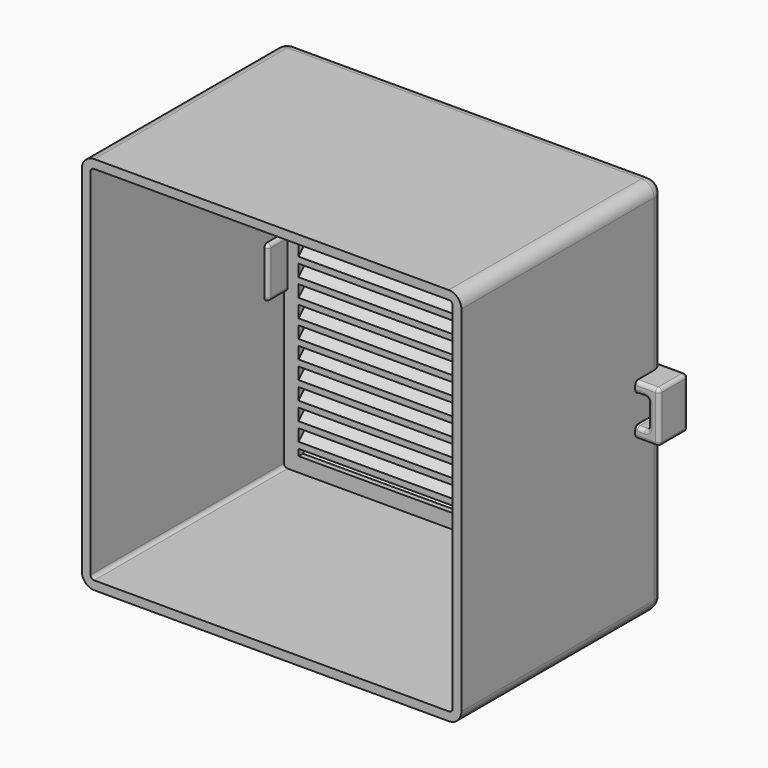
from build123d import *

# Parameters (mm, degrees)
BOX029_W             = 4
BOX029_H             = 8
BOX029_DEPTH         = 14
BOX028_W             = 10
BOX028_H             = 14
BOX028_DEPTH         = 10
FILLET001_R          = 1
BOX027_W             = 4
BOX027_H             = 8
BOX027_DEPTH         = 14
BOX026_W             = 10
BOX026_H             = 14
BOX026_DEPTH         = 10
FILLET002_R          = 1
BOX025_W             = 120
BOX025_H             = 120
BOX025_DEPTH         = 10
BOX001_W             = 100
BOX001_H             = 100
BOX001_DEPTH         = 70
BOX004_W             = 104
BOX004_H             = 1.2
BOX004_DEPTH         = 7
BOX004_ROLL_ANGLE    = 45
BOX016_W             = 104
BOX016_H             = 1.2
BOX016_DEPTH         = 7
BOX016_ROLL_ANGLE    = 45
BOX015_W             = 104
BOX015_H             = 1.2
BOX015_DEPTH         = 7
BOX015_ROLL_ANGLE    = 45
BOX008_W             = 104
BOX008_H             = 1.2
BOX008_DEPTH         = 7
BOX008_ROLL_ANGLE    = 45
BOX006_W             = 104
BOX006_H             = 1.2
BOX006_DEPTH         = 7
BOX006_ROLL_ANGLE    = 45
BOX009_W             = 104
BOX009_H             = 1.2
BOX009_DEPTH         = 7
BOX009_ROLL_ANGLE    = 45
BOX010_W             = 104
BOX010_H             = 1.2
BOX010_DEPTH         = 7
BOX010_ROLL_ANGLE    = 45
BOX012_W             = 104
BOX012_H             = 1.2
BOX012_DEPTH         = 7
BOX012_ROLL_ANGLE    = 45
BOX013_W             = 104
BOX013_H             = 1.2
BOX013_DEPTH         = 7
BOX013_ROLL_ANGLE    = 45
BOX007_W             = 104
BOX007_H             = 1.2
BOX007_DEPTH         = 7
BOX007_ROLL_ANGLE    = 45
BOX014_W             = 104
BOX014_H             = 1.2
BOX014_DEPTH         = 7
BOX014_ROLL_ANGLE    = 45
BOX011_W             = 104
BOX011_H             = 1.2
BOX011_DEPTH         = 7
BOX011_ROLL_ANGLE    = 45
BOX005_W             = 104
BOX005_H             = 1.2
BOX005_DEPTH         = 7
BOX005_ROLL_ANGLE    = 45
BOX019_W             = 104
BOX019_H             = 1.2
BOX019_DEPTH         = 7
BOX019_ROLL_ANGLE    = 45
BOX022_W             = 104
BOX022_H             = 1.2
BOX022_DEPTH         = 7
BOX022_ROLL_ANGLE    = 45
BOX023_W             = 104
BOX023_H             = 1.2
BOX023_DEPTH         = 7
BOX023_ROLL_ANGLE    = 45
BOX017_W             = 104
BOX017_H             = 1.2
BOX017_DEPTH         = 7
BOX017_ROLL_ANGLE    = 45
BOX021_W             = 104
BOX021_H             = 1.2
BOX021_DEPTH         = 7
BOX021_ROLL_ANGLE    = 45
BOX020_W             = 104
BOX020_H             = 1.2
BOX020_DEPTH         = 7
BOX020_ROLL_ANGLE    = 45
BOX018_W             = 104
BOX018_H             = 1.2
BOX018_DEPTH         = 7
BOX018_ROLL_ANGLE    = 45
BOX003_W             = 104
BOX003_H             = 1.2
BOX003_DEPTH         = 7
BOX003_ROLL_ANGLE    = 45
BOX024_W             = 4
BOX024_H             = 104
BOX024_DEPTH         = 10
BOX002_W             = 92
BOX002_H             = 92
BOX002_DEPTH         = 80
BOX_W                = 104.8
BOX_H                = 104.8
BOX_DEPTH            = 70
FILLET_1_R           = 3.5
FILLET_2_R           = 1
FUSION002_ROLL_ANGLE = 90


with BuildPart() as cube008:
    # Box029 → Box029 (new body)
    with BuildSketch(Plane(origin=(52, -4, -1), x_dir=(1, 0, 0), z_dir=(0, 0, 1))):
        with Locations((2, 4)):
            Rectangle(BOX029_W, BOX029_H)
    extrude(amount=BOX029_DEPTH)


with BuildPart() as fillet001:
    # Box028 → Box028 (new body)
    with BuildSketch(Plane(origin=(49, -7, 0), x_dir=(1, 0, 0), z_dir=(0, 0, 1))):
        with Locations((5, 7)):
            Rectangle(BOX028_W, BOX028_H)
    extrude(amount=BOX028_DEPTH)

    # Cut004: cut Cube008
    add(cube008.part, mode=Mode.SUBTRACT)


with BuildPart() as fillet001_1:
    # Cut004 placement: moved
    add(fillet001.part.moved(Location((-108, 0, 0))))

    # Fillet001
    fillet001_edges = [fillet001_1.edges().sort_by_distance(p)[0] for p in [
        (-59, -7, 5),
        (-59, 0, 10),
        (-59, 7, 5),
        (-59, 0, 0),
        (-54, -7, 0),
        (-49, -7, 5),
        (-54, -7, 10),
        (-54, 7, 10),
        (-49, 0, 10),
        (-54, -4, 10),
        (-52, 0, 10),
        (-54, 4, 10),
        (-56, 0, 10),
        (-54, 7, 0),
        (-49, 7, 5),
        (-49, 0, 0),
        (-54, -4, 0),
        (-52, 0, 0),
        (-54, 4, 0),
        (-56, 0, 0),
        (-52, -4, 5),
        (-56, -4, 5),
        (-52, 4, 5),
        (-56, 4, 5),
    ]]
    fillet(fillet001_edges, radius=FILLET001_R)


with BuildPart() as cube006:
    # Box027 → Box027 (new body)
    with BuildSketch(Plane(origin=(52, -4, -1), x_dir=(1, 0, 0), z_dir=(0, 0, 1))):
        with Locations((2, 4)):
            Rectangle(BOX027_W, BOX027_H)
    extrude(amount=BOX027_DEPTH)


with BuildPart() as fillet002:
    # Box026 → Box026 (new body)
    with BuildSketch(Plane(origin=(49, -7, 0), x_dir=(1, 0, 0), z_dir=(0, 0, 1))):
        with Locations((5, 7)):
            Rectangle(BOX026_W, BOX026_H)
    extrude(amount=BOX026_DEPTH)

    # Cut003: cut Cube006
    add(cube006.part, mode=Mode.SUBTRACT)

    # Fillet002
    fillet002_edges = [fillet002.edges().sort_by_distance(p)[0] for p in [
        (49, -7, 5),
        (49, 0, 10),
        (49, 7, 5),
        (49, 0, 0),
        (54, -7, 0),
        (59, -7, 5),
        (54, -7, 10),
        (54, 7, 10),
        (59, 0, 10),
        (54, -4, 10),
        (56, 0, 10),
        (54, 4, 10),
        (52, 0, 10),
        (54, 7, 0),
        (59, 7, 5),
        (59, 0, 0),
        (54, -4, 0),
        (56, 0, 0),
        (54, 4, 0),
        (52, 0, 0),
        (56, -4, 5),
        (52, -4, 5),
        (56, 4, 5),
        (52, 4, 5),
    ]]
    fillet(fillet002_edges, radius=FILLET002_R)


with BuildPart() as cube004:
    # Box025 → Box025 (new body)
    with BuildSketch(Plane(origin=(-60, -60, -10), x_dir=(1, 0, 0), z_dir=(0, 0, 1))):
        with Locations((60, 60)):
            Rectangle(BOX025_W, BOX025_H)
    extrude(amount=BOX025_DEPTH)


with BuildPart() as cube001:
    # Box001 → Box001 (new body)
    with BuildSketch(Plane(origin=(-50, -50, 3.2), x_dir=(1, 0, 0), z_dir=(0, 0, 1))):
        with Locations((50, 50)):
            Rectangle(BOX001_W, BOX001_H)
    extrude(amount=BOX001_DEPTH)


with BuildPart() as fin001:
    # Box004 → Box004 (new body)
    with BuildSketch(Plane.XY):
        with Locations((52, 0.6)):
            Rectangle(BOX004_W, BOX004_H)
    extrude(amount=BOX004_DEPTH)


with BuildPart() as fin001_1:
    # Box004 roll: moved
    add(fin001.part.rotate(Axis((0, 0, 0), (1, 0, 0)), BOX004_ROLL_ANGLE))


with BuildPart() as fin001_2:
    # Box004 placement: moved
    add(fin001_1.part.moved(Location((-52, 5, -1))))


with BuildPart() as obj1:
    # Box016 → Box016 (new body)
    with BuildSketch(Plane.XY):
        with Locations((52, 0.6)):
            Rectangle(BOX016_W, BOX016_H)
    extrude(amount=BOX016_DEPTH)


with BuildPart() as obj1_1:
    # Box016 roll: moved
    add(obj1.part.rotate(Axis((0, 0, 0), (1, 0, 0)), BOX016_ROLL_ANGLE))


with BuildPart() as obj1_2:
    # Box016 placement: moved
    add(obj1_1.part.moved(Location((-52, -35, -1))))


with BuildPart() as obj2:
    # Box015 → Box015 (new body)
    with BuildSketch(Plane.XY):
        with Locations((52, 0.6)):
            Rectangle(BOX015_W, BOX015_H)
    extrude(amount=BOX015_DEPTH)


with BuildPart() as obj2_1:
    # Box015 roll: moved
    add(obj2.part.rotate(Axis((0, 0, 0), (1, 0, 0)), BOX015_ROLL_ANGLE))


with BuildPart() as obj2_2:
    # Box015 placement: moved
    add(obj2_1.part.moved(Location((-52, -40, -1))))


with BuildPart() as fin005:
    # Box008 → Box008 (new body)
    with BuildSketch(Plane.XY):
        with Locations((52, 0.6)):
            Rectangle(BOX008_W, BOX008_H)
    extrude(amount=BOX008_DEPTH)


with BuildPart() as fin005_1:
    # Box008 roll: moved
    add(fin005.part.rotate(Axis((0, 0, 0), (1, 0, 0)), BOX008_ROLL_ANGLE))


with BuildPart() as fin005_2:
    # Box008 placement: moved
    add(fin005_1.part.moved(Location((-52, 20, -1))))


with BuildPart() as fin003:
    # Box006 → Box006 (new body)
    with BuildSketch(Plane.XY):
        with Locations((52, 0.6)):
            Rectangle(BOX006_W, BOX006_H)
    extrude(amount=BOX006_DEPTH)


with BuildPart() as fin003_1:
    # Box006 roll: moved
    add(fin003.part.rotate(Axis((0, 0, 0), (1, 0, 0)), BOX006_ROLL_ANGLE))


with BuildPart() as fin003_2:
    # Box006 placement: moved
    add(fin003_1.part.moved(Location((-52, 10, -1))))


with BuildPart() as fin006:
    # Box009 → Box009 (new body)
    with BuildSketch(Plane.XY):
        with Locations((52, 0.6)):
            Rectangle(BOX009_W, BOX009_H)
    extrude(amount=BOX009_DEPTH)


with BuildPart() as fin006_1:
    # Box009 roll: moved
    add(fin006.part.rotate(Axis((0, 0, 0), (1, 0, 0)), BOX009_ROLL_ANGLE))


with BuildPart() as fin006_2:
    # Box009 placement: moved
    add(fin006_1.part.moved(Location((-52, 25, -1))))


with BuildPart() as fin007:
    # Box010 → Box010 (new body)
    with BuildSketch(Plane.XY):
        with Locations((52, 0.6)):
            Rectangle(BOX010_W, BOX010_H)
    extrude(amount=BOX010_DEPTH)


with BuildPart() as fin007_1:
    # Box010 roll: moved
    add(fin007.part.rotate(Axis((0, 0, 0), (1, 0, 0)), BOX010_ROLL_ANGLE))


with BuildPart() as fin007_2:
    # Box010 placement: moved
    add(fin007_1.part.moved(Location((-52, 30, -1))))


with BuildPart() as fin009:
    # Box012 → Box012 (new body)
    with BuildSketch(Plane.XY):
        with Locations((52, 0.6)):
            Rectangle(BOX012_W, BOX012_H)
    extrude(amount=BOX012_DEPTH)


with BuildPart() as fin009_1:
    # Box012 roll: moved
    add(fin009.part.rotate(Axis((0, 0, 0), (1, 0, 0)), BOX012_ROLL_ANGLE))


with BuildPart() as fin009_2:
    # Box012 placement: moved
    add(fin009_1.part.moved(Location((-52, 40, -1))))


with BuildPart() as fin010:
    # Box013 → Box013 (new body)
    with BuildSketch(Plane.XY):
        with Locations((52, 0.6)):
            Rectangle(BOX013_W, BOX013_H)
    extrude(amount=BOX013_DEPTH)


with BuildPart() as fin010_1:
    # Box013 roll: moved
    add(fin010.part.rotate(Axis((0, 0, 0), (1, 0, 0)), BOX013_ROLL_ANGLE))


with BuildPart() as fin010_2:
    # Box013 placement: moved
    add(fin010_1.part.moved(Location((-52, 45, -1))))


with BuildPart() as fin004:
    # Box007 → Box007 (new body)
    with BuildSketch(Plane.XY):
        with Locations((52, 0.6)):
            Rectangle(BOX007_W, BOX007_H)
    extrude(amount=BOX007_DEPTH)


with BuildPart() as fin004_1:
    # Box007 roll: moved
    add(fin004.part.rotate(Axis((0, 0, 0), (1, 0, 0)), BOX007_ROLL_ANGLE))


with BuildPart() as fin004_2:
    # Box007 placement: moved
    add(fin004_1.part.moved(Location((-52, 15, -1))))


with BuildPart() as obj3:
    # Box014 → Box014 (new body)
    with BuildSketch(Plane.XY):
        with Locations((52, 0.6)):
            Rectangle(BOX014_W, BOX014_H)
    extrude(amount=BOX014_DEPTH)


with BuildPart() as obj3_1:
    # Box014 roll: moved
    add(obj3.part.rotate(Axis((0, 0, 0), (1, 0, 0)), BOX014_ROLL_ANGLE))


with BuildPart() as obj3_2:
    # Box014 placement: moved
    add(obj3_1.part.moved(Location((-52, -45, -1))))


with BuildPart() as fin008:
    # Box011 → Box011 (new body)
    with BuildSketch(Plane.XY):
        with Locations((52, 0.6)):
            Rectangle(BOX011_W, BOX011_H)
    extrude(amount=BOX011_DEPTH)


with BuildPart() as fin008_1:
    # Box011 roll: moved
    add(fin008.part.rotate(Axis((0, 0, 0), (1, 0, 0)), BOX011_ROLL_ANGLE))


with BuildPart() as fin008_2:
    # Box011 placement: moved
    add(fin008_1.part.moved(Location((-52, 35, -1))))


with BuildPart() as fin002:
    # Box005 → Box005 (new body)
    with BuildSketch(Plane.XY):
        with Locations((52, 0.6)):
            Rectangle(BOX005_W, BOX005_H)
    extrude(amount=BOX005_DEPTH)


with BuildPart() as fin002_1:
    # Box005 roll: moved
    add(fin002.part.rotate(Axis((0, 0, 0), (1, 0, 0)), BOX005_ROLL_ANGLE))


with BuildPart() as fin002_2:
    # Box005 placement: moved
    add(fin002_1.part.moved(Location((-52, 15, -1))))


with BuildPart() as obj4:
    # Box019 → Box019 (new body)
    with BuildSketch(Plane.XY):
        with Locations((52, 0.6)):
            Rectangle(BOX019_W, BOX019_H)
    extrude(amount=BOX019_DEPTH)


with BuildPart() as obj4_1:
    # Box019 roll: moved
    add(obj4.part.rotate(Axis((0, 0, 0), (1, 0, 0)), BOX019_ROLL_ANGLE))


with BuildPart() as obj4_2:
    # Box019 placement: moved
    add(obj4_1.part.moved(Location((-52, -25, -1))))


with BuildPart() as obj5:
    # Box022 → Box022 (new body)
    with BuildSketch(Plane.XY):
        with Locations((52, 0.6)):
            Rectangle(BOX022_W, BOX022_H)
    extrude(amount=BOX022_DEPTH)


with BuildPart() as obj5_1:
    # Box022 roll: moved
    add(obj5.part.rotate(Axis((0, 0, 0), (1, 0, 0)), BOX022_ROLL_ANGLE))


with BuildPart() as obj5_2:
    # Box022 placement: moved
    add(obj5_1.part.moved(Location((-52, -10, -1))))


with BuildPart() as obj6:
    # Box023 → Box023 (new body)
    with BuildSketch(Plane.XY):
        with Locations((52, 0.6)):
            Rectangle(BOX023_W, BOX023_H)
    extrude(amount=BOX023_DEPTH)


with BuildPart() as obj6_1:
    # Box023 roll: moved
    add(obj6.part.rotate(Axis((0, 0, 0), (1, 0, 0)), BOX023_ROLL_ANGLE))


with BuildPart() as obj6_2:
    # Box023 placement: moved
    add(obj6_1.part.moved(Location((-52, -5, -1))))


with BuildPart() as obj7:
    # Box017 → Box017 (new body)
    with BuildSketch(Plane.XY):
        with Locations((52, 0.6)):
            Rectangle(BOX017_W, BOX017_H)
    extrude(amount=BOX017_DEPTH)


with BuildPart() as obj7_1:
    # Box017 roll: moved
    add(obj7.part.rotate(Axis((0, 0, 0), (1, 0, 0)), BOX017_ROLL_ANGLE))


with BuildPart() as obj7_2:
    # Box017 placement: moved
    add(obj7_1.part.moved(Location((-52, -30, -1))))


with BuildPart() as obj8:
    # Box021 → Box021 (new body)
    with BuildSketch(Plane.XY):
        with Locations((52, 0.6)):
            Rectangle(BOX021_W, BOX021_H)
    extrude(amount=BOX021_DEPTH)


with BuildPart() as obj8_1:
    # Box021 roll: moved
    add(obj8.part.rotate(Axis((0, 0, 0), (1, 0, 0)), BOX021_ROLL_ANGLE))


with BuildPart() as obj8_2:
    # Box021 placement: moved
    add(obj8_1.part.moved(Location((-52, -15, -1))))


with BuildPart() as obj9:
    # Box020 → Box020 (new body)
    with BuildSketch(Plane.XY):
        with Locations((52, 0.6)):
            Rectangle(BOX020_W, BOX020_H)
    extrude(amount=BOX020_DEPTH)


with BuildPart() as obj9_1:
    # Box020 roll: moved
    add(obj9.part.rotate(Axis((0, 0, 0), (1, 0, 0)), BOX020_ROLL_ANGLE))


with BuildPart() as obj9_2:
    # Box020 placement: moved
    add(obj9_1.part.moved(Location((-52, -20, -1))))


with BuildPart() as obj10:
    # Box018 → Box018 (new body)
    with BuildSketch(Plane.XY):
        with Locations((52, 0.6)):
            Rectangle(BOX018_W, BOX018_H)
    extrude(amount=BOX018_DEPTH)


with BuildPart() as obj10_1:
    # Box018 roll: moved
    add(obj10.part.rotate(Axis((0, 0, 0), (1, 0, 0)), BOX018_ROLL_ANGLE))


with BuildPart() as obj10_2:
    # Box018 placement: moved
    add(obj10_1.part.moved(Location((-52, -20, -1))))


with BuildPart() as fins:
    # Box003 → Box003 (new body)
    with BuildSketch(Plane.XY):
        with Locations((52, 0.6)):
            Rectangle(BOX003_W, BOX003_H)
    extrude(amount=BOX003_DEPTH)


with BuildPart() as fins_1:
    # Box003 roll: moved
    add(fins.part.rotate(Axis((0, 0, 0), (1, 0, 0)), BOX003_ROLL_ANGLE))


with BuildPart() as fins_2:
    # Box003 placement: moved
    add(fins_1.part.moved(Location((-52, 0, -1))))

    # Fusion: union fin001, obj1, obj2, fin005, fin003, fin006, fin007, fin009, fin010, fin004, obj3, fin008, fin002, obj4, obj5, obj6, obj7, obj8, obj9, obj10
    add(fin001_2.part)
    add(obj1_2.part)
    add(obj2_2.part)
    add(fin005_2.part)
    add(fin003_2.part)
    add(fin006_2.part)
    add(fin007_2.part)
    add(fin009_2.part)
    add(fin010_2.part)
    add(fin004_2.part)
    add(obj3_2.part)
    add(fin008_2.part)
    add(fin002_2.part)
    add(obj4_2.part)
    add(obj5_2.part)
    add(obj6_2.part)
    add(obj7_2.part)
    add(obj8_2.part)
    add(obj9_2.part)
    add(obj10_2.part)


with BuildPart() as cube003:
    # Box024 → Box024 (new body)
    with BuildSketch(Plane(origin=(0, -52, 2), x_dir=(1, 0, 0), z_dir=(0, 0, 1))):
        with Locations((2, 52)):
            Rectangle(BOX024_W, BOX024_H)
    extrude(amount=BOX024_DEPTH)


with BuildPart() as cube002:
    # Box002 → Box002 (new body)
    with BuildSketch(Plane(origin=(-46, -46, -5), x_dir=(1, 0, 0), z_dir=(0, 0, 1))):
        with Locations((46, 46)):
            Rectangle(BOX002_W, BOX002_H)
    extrude(amount=BOX002_DEPTH)


with BuildPart() as fusion002:
    # Box → Box (new body)
    with BuildSketch(Plane(origin=(-52.4, -52.4, 0), x_dir=(1, 0, 0), z_dir=(0, 0, 1))):
        with Locations((52.4, 52.4)):
            Rectangle(BOX_W, BOX_H)
    extrude(amount=BOX_DEPTH)

    # Cut: cut Cube002
    add(cube002.part, mode=Mode.SUBTRACT)

    # Fusion001: union fins, Cube003
    add(fins_2.part)
    add(cube003.part)

    # Cut001: cut Cube001
    add(cube001.part, mode=Mode.SUBTRACT)

    # Cut002: cut Cube004
    add(cube004.part, mode=Mode.SUBTRACT)

    # Fillet 1
    fillet_1_edges = [fusion002.edges().sort_by_distance(p)[0] for p in [
        (-52.4, -52.4, 35),
        (-52.4, 0, 0),
        (-52.4, 52.4, 35),
        (0, -52.4, 0),
        (52.4, -52.4, 35),
        (0, 52.4, 0),
        (52.4, 0, 0),
        (52.4, 52.4, 35),
    ]]
    fillet(fillet_1_edges, radius=FILLET_1_R)

    # Fillet 2
    fillet_2_edges = [fusion002.edges().sort_by_distance(p)[0] for p in [
        (50, -50, 36.6),
        (-50, -50, 36.6),
        (50, 50, 36.6),
        (-50, 50, 36.6),
    ]]
    fillet(fillet_2_edges, radius=FILLET_2_R)

    # Fusion002: union Fillet001, Fillet002
    add(fillet001_1.part)
    add(fillet002.part)


with BuildPart() as fusion002_1:
    # Fusion002 roll: moved
    add(fusion002.part.rotate(Axis((0, 0, 0), (1, 0, 0)), FUSION002_ROLL_ANGLE))


with BuildPart() as fusion002_2:
    # Fusion002 placement: moved
    add(fusion002_1.part)


solid = fusion002_2.part
